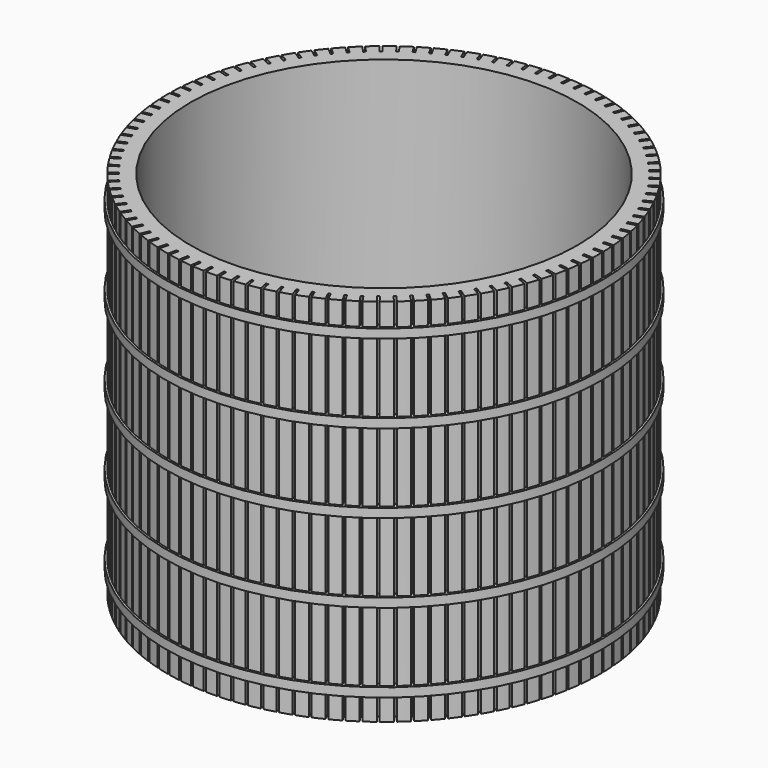
from build123d import *

# Parameters (mm, degrees)
F0_R      = 24.32304
F5_DEPTH  = 41.656
F6_T      = -2.54
F7_W      = 0.254
F7_H      = 1.307197
F8_DEPTH  = 41.657
F10_R     = 24.57704
F10_R_2   = 23.81504
F11_DEPTH = 1.016
F12_R     = 24.57704
F12_R_2   = 23.81504
F13_DEPTH = 1.016
F14_R     = 24.57704
F14_R_2   = 23.81504
F15_DEPTH = 1.016
F16_R     = 24.57704
F16_R_2   = 23.81504
F17_DEPTH = 1.016
F18_R     = 24.57704
F18_R_2   = 23.81504
F19_DEPTH = 1.016


with BuildPart() as f5:
    # F0 (on Top) → F5 (new body)
    with BuildSketch(Plane.XY):
        Circle(F0_R)
    extrude(amount=F5_DEPTH)

    # F6
    f6_openings = [f5.faces().sort_by_distance(p)[0] for p in [
        (0, 0, 41.656),
    ]]
    offset(amount=F6_T, openings=f6_openings)

    # F7 (on face) → F8 (cut, through all)
    with BuildSketch(Plane.XY.offset(41.656)):
        with Locations((0, 23.960639)):
            Rectangle(F7_W, F7_H)
        Polygon((1.656588, 24.558756), (1.403079, 24.574543), (1.321834, 23.269873), (1.575343, 23.254086), align=None)
        Polygon((3.179771, 24.408315), (2.927733, 24.439828), (2.765556, 23.14273), (3.017594, 23.111217), align=None)
        Polygon((4.690658, 24.163496), (4.441067, 24.210612), (4.198586, 22.926101), (4.448178, 22.878985), align=None)
        Polygon((6.183409, 23.825244), (5.937228, 23.887782), (5.61538, 22.620825), (5.861561, 22.558288), align=None)
        Polygon((7.65225, 23.394868), (7.410432, 23.472586), (7.010462, 22.228083), (7.252281, 22.150365), align=None)
        Polygon((9.091503, 22.874033), (8.854983, 22.96663), (8.378437, 21.749391), (8.614958, 21.656794), align=None)
        Polygon((10.495602, 22.264751), (10.265294, 22.371869), (9.714016, 21.186603), (9.944324, 21.079485), align=None)
        Polygon((11.859118, 21.569379), (11.635913, 21.690605), (11.012033, 20.541893), (11.235238, 20.420668), align=None)
        Polygon((13.176779, 20.790606), (12.96154, 20.92547), (12.267471, 19.817754), (12.48271, 19.682891), align=None)
        Polygon((14.44349, 19.931443), (14.237049, 20.079423), (13.475475, 19.016988), (13.681916, 18.869007), align=None)
        Polygon((15.654352, 18.995211), (15.457508, 19.155737), (14.631374, 18.142688), (14.828218, 17.982163), align=None)
        Polygon((16.804685, 17.985532), (16.618199, 18.157981), (15.730698, 17.198238), (15.917185, 17.025789), align=None)
        Polygon((17.89004, 16.906309), (17.714632, 17.090015), (16.769197, 16.187287), (16.944605, 16.003581), align=None)
        Polygon((18.90622, 15.761714), (18.742569, 15.955968), (17.742855, 15.113746), (17.906506, 14.919493), align=None)
        Polygon((19.849296, 14.556175), (19.698035, 14.760224), (18.647908, 13.981766), (18.799169, 13.777717), align=None)
        Polygon((20.715622, 13.294352), (20.577336, 13.507408), (19.480856, 12.795722), (19.619142, 12.582667), align=None)
        Polygon((21.501848, 11.981124), (21.377071, 12.202363), (20.238477, 11.560202), (20.363255, 11.338964), align=None)
        Polygon((22.204933, 10.621569), (22.094148, 10.850136), (20.917844, 10.279983), (21.02863, 10.051417), align=None)
        Polygon((22.82216, 9.220945), (22.725794, 9.455955), (21.516328, 8.960014), (21.612694, 8.725004), align=None)
        Polygon((23.351141, 7.784666), (23.269568, 8.025211), (22.031617, 7.6054), (22.113189, 7.364855), align=None)
        Polygon((23.789831, 6.318286), (23.723366, 6.563436), (22.461716, 6.221379), (22.528181, 5.976229), align=None)
        Polygon((24.136534, 4.827476), (24.085435, 5.076283), (22.804964, 4.813302), (22.856063, 4.564495), align=None)
        Polygon((24.389909, 3.318), (24.354373, 3.569502), (23.060032, 3.386613), (23.095569, 3.135111), align=None)
        Polygon((24.548977, 1.795694), (24.529141, 2.048918), (23.225936, 1.946829), (23.245773, 1.693605), align=None)
        Polygon((24.613123, 0.266445), (24.609063, 0.520412), (23.302033, 0.499518), (23.306092, 0.245551), align=None)
        Polygon((24.582098, -1.263835), (24.59383, -1.010106), (23.288028, -0.949725), (23.276296, -1.203453), align=None)
        Polygon((24.456022, -2.789228), (24.483502, -2.536719), (23.183977, -2.395295), (23.156497, -2.647804), align=None)
        Polygon((24.235383, -4.303835), (24.278504, -4.053522), (22.990282, -3.831604), (22.947161, -4.081917), align=None)
        Polygon((23.921035, -5.801802), (23.97963, -5.554653), (22.707691, -5.253097), (22.649096, -5.500246), align=None)
        Polygon((23.514192, -7.277334), (23.588034, -7.034305), (22.337297, -6.654278), (22.263454, -6.897308), align=None)
        Polygon((23.016427, -8.724728), (23.105232, -8.486758), (21.880532, -8.02973), (21.791727, -8.2677), align=None)
        Polygon((22.429666, -10.138386), (22.53309, -9.906396), (21.339163, -9.374133), (21.235739, -9.606124), align=None)
        Polygon((21.756177, -11.512843), (21.87382, -11.287729), (20.715282, -10.68229), (20.59764, -10.907404), align=None)
        Polygon((20.998565, -12.842783), (21.129971, -12.625416), (20.011303, -11.949142), (19.879897, -12.166509), align=None)
        Polygon((20.159758, -14.123065), (20.30442, -13.914285), (19.229947, -13.16979), (19.085285, -13.37857), align=None)
        Polygon((19.243, -15.348738), (19.400359, -15.149353), (18.374235, -14.339516), (18.216877, -14.538901), align=None)
        Polygon((18.251837, -16.515062), (18.421283, -16.325843), (17.447477, -15.453796), (17.27803, -15.643015), align=None)
        Polygon((17.190099, -17.617528), (17.370978, -17.439206), (16.453255, -16.508321), (16.272375, -16.686643), align=None)
        Polygon((16.061894, -18.651873), (16.253506, -18.485138), (15.395413, -17.499014), (15.203801, -17.665749), align=None)
        Polygon((14.871582, -19.614098), (15.073187, -19.459595), (14.278043, -18.422044), (14.076438, -18.576548), align=None)
        Polygon((13.623767, -20.500482), (13.834586, -20.358808), (13.105465, -19.273843), (12.894647, -19.415518), align=None)
        Polygon((12.323274, -21.307598), (12.54249, -21.1793), (11.882213, -20.051116), (11.662997, -20.179414), align=None)
        Polygon((10.975131, -22.032324), (11.201897, -21.917899), (10.613016, -20.750859), (10.386249, -20.865284), align=None)
        Polygon((9.584551, -22.671859), (9.817991, -22.571749), (9.302782, -21.370365), (9.069342, -21.470475), align=None)
        Polygon((8.156911, -23.22373), (8.396121, -23.138322), (7.956577, -21.907239), (7.717367, -21.992646), align=None)
        Polygon((6.69773, -23.685802), (6.941787, -23.615427), (6.579607, -22.359405), (6.335551, -22.42978), align=None)
        Polygon((5.212652, -24.056289), (5.460611, -24.001219), (5.177196, -22.725116), (4.929238, -22.780186), align=None)
        Polygon((3.707419, -24.33376), (3.95832, -24.294207), (3.754767, -23.002956), (3.503865, -23.042508), align=None)
        Polygon((2.18785, -24.517139), (2.440724, -24.493258), (2.317819, -23.191851), (2.064944, -23.215733), align=None)
        Polygon((0.659821, -24.60572), (0.913691, -24.597601), (0.871909, -23.291072), (0.618038, -23.29919), align=None)
        Polygon((-0.870759, -24.599158), (-0.616875, -24.606834), (-0.577373, -23.300234), (-0.831257, -23.292558), align=None)
        Polygon((-2.397972, -24.49748), (-2.145056, -24.52092), (-2.024422, -23.219301), (-2.277338, -23.195861), align=None)
        Polygon((-3.915913, -24.301079), (-3.664943, -24.340193), (-3.463643, -23.048588), (-3.714613, -23.009474), align=None)
        Polygon((-5.418712, -24.010713), (-5.170658, -24.065351), (-4.889471, -22.788754), (-5.137525, -22.734117), align=None)
        Polygon((-6.900559, -23.627507), (-6.656381, -23.697456), (-6.296394, -22.440804), (-6.540573, -22.370855), align=None)
        Polygon((-8.355724, -23.152941), (-8.116365, -23.237931), (-7.678971, -22.006082), (-7.91833, -21.921093), align=None)
        Polygon((-9.778581, -22.58885), (-9.544967, -22.688553), (-9.031855, -21.486271), (-9.265469, -21.386569), align=None)
        Polygon((-11.163626, -21.937417), (-10.936661, -22.051446), (-10.349817, -20.883379), (-10.576782, -20.76935), align=None)
        Polygon((-12.505506, -21.201158), (-12.286067, -21.329073), (-11.627759, -20.199739), (-11.847199, -20.071824), align=None)
        Polygon((-13.799032, -20.382922), (-13.587967, -20.524229), (-12.860741, -19.437993), (-13.071806, -19.296687), align=None)
        Polygon((-15.039201, -19.485873), (-14.837326, -19.640024), (-14.043995, -18.601088), (-14.245869, -18.446936), align=None)
        Polygon((-16.221219, -18.513478), (-16.029315, -18.679878), (-15.172945, -17.692258), (-15.364848, -17.525857), align=None)
        Polygon((-17.340515, -17.469498), (-17.159325, -17.647504), (-16.243227, -16.715018), (-16.424417, -16.537012), align=None)
        Polygon((-18.392761, -16.357969), (-18.222985, -16.546892), (-17.250702, -15.673147), (-17.420478, -15.484224), align=None)
        Polygon((-19.373889, -15.18319), (-19.216182, -15.382299), (-18.191474, -14.570673), (-18.34918, -14.371563), align=None)
        Polygon((-20.280104, -13.949702), (-20.135078, -14.158229), (-19.061906, -13.41186), (-19.206932, -13.203333), align=None)
        Polygon((-21.107903, -12.662276), (-20.976118, -12.879413), (-19.858632, -12.201187), (-19.990418, -11.98405), align=None)
        Polygon((-21.854085, -11.325889), (-21.736051, -11.550797), (-20.578572, -10.943337), (-20.696607, -10.718428), align=None)
        Polygon((-22.515765, -9.945708), (-22.411937, -10.177518), (-21.218941, -9.643172), (-21.322769, -9.411363), align=None)
        Polygon((-23.090385, -8.527071), (-23.001165, -8.764886), (-21.777264, -8.305721), (-21.866484, -8.067906), align=None)
        Polygon((-23.575721, -7.075463), (-23.501454, -7.318363), (-22.251382, -6.936154), (-22.325649, -6.693254), align=None)
        Polygon((-23.969898, -5.596497), (-23.910872, -5.843543), (-22.639461, -5.539768), (-22.698488, -5.292721), align=None)
        Polygon((-24.271392, -4.09589), (-24.227835, -4.346128), (-22.940002, -4.121961), (-22.983559, -3.871724), align=None)
        Polygon((-24.479037, -2.579446), (-24.451117, -2.831907), (-23.151841, -2.688216), (-23.179761, -2.435755), align=None)
        Polygon((-24.59203, -1.053029), (-24.579854, -1.306737), (-23.27416, -1.244076), (-23.286335, -0.990368), align=None)
        Polygon((-24.609934, 0.47746), (-24.61355, 0.223486), (-23.306486, 0.204873), (-23.302869, 0.458848), align=None)
        Polygon((-24.532679, 2.006104), (-24.552074, 1.752845), (-23.248693, 1.653031), (-23.229298, 1.90629), align=None)
        Polygon((-24.360565, 3.52699), (-24.395663, 3.275426), (-23.101006, 3.094797), (-23.065908, 3.346361), align=None)
        Polygon((-24.094258, 5.034238), (-24.144923, 4.785343), (-22.863995, 4.524597), (-22.81333, 4.773492), align=None)
        Polygon((-23.734786, 6.522021), (-23.800822, 6.276756), (-22.538577, 5.936901), (-22.47254, 6.182166), align=None)
        Polygon((-23.283539, 7.984586), (-23.364692, 7.743899), (-22.12601, 7.326249), (-22.044857, 7.566936), align=None)
        Polygon((-22.742263, 9.416276), (-22.838219, 9.181099), (-21.627889, 8.68727), (-21.531934, 8.922448), align=None)
        Polygon((-22.113051, 10.811558), (-22.223438, 10.582798), (-21.046141, 10.014699), (-20.935754, 10.243459), align=None)
        Polygon((-21.398335, 12.165034), (-21.522726, 11.943578), (-20.383014, 11.303406), (-20.258623, 11.524862), align=None)
        Polygon((-20.600879, 13.471473), (-20.738794, 13.258176), (-19.641073, 12.548406), (-19.503159, 12.761702), align=None)
        Polygon((-19.723767, 14.725822), (-19.874672, 14.521509), (-18.823187, 13.744885), (-18.672282, 13.949198), align=None)
        Polygon((-18.770389, 15.923231), (-18.933701, 15.728693), (-17.932518, 14.888218), (-17.769207, 15.082756), align=None)
        Polygon((-17.744433, 17.059071), (-17.91952, 16.875059), (-16.972511, 15.973983), (-16.797424, 16.157995), align=None)
        Polygon((-16.649865, 18.128949), (-16.83605, 17.956175), (-15.946876, 16.997982), (-15.760691, 17.170756), align=None)
        Polygon((-15.490918, 19.128729), (-15.687481, 18.96786), (-14.85958, 17.956256), (-14.663016, 18.117124), align=None)
        Polygon((-14.272072, 20.054544), (-14.478255, 19.906204), (-13.714828, 18.845099), (-13.508645, 18.993439), align=None)
        Polygon((-12.998042, 20.902816), (-13.213045, 20.767577), (-12.517044, 19.661074), (-12.302041, 19.796313), align=None)
        Polygon((-11.673753, 21.670263), (-11.896745, 21.548648), (-11.270862, 20.401027), (-11.047869, 20.522642), align=None)
        Polygon((-10.304325, 22.353919), (-10.534445, 22.246399), (-9.981099, 21.062096), (-9.750979, 21.169616), align=None)
        Polygon((-8.895054, 22.95114), (-9.131412, 22.85813), (-8.652743, 21.641726), (-8.416384, 21.734735), align=None)
        Polygon((-7.451388, 23.459617), (-7.69307, 23.381477), (-7.290929, 22.137674), (-7.049247, 22.215813), align=None)
        Polygon((-5.978911, 23.877383), (-6.224982, 23.814416), (-5.900924, 22.548023), (-5.654853, 22.61099), align=None)
        Polygon((-4.483315, 24.202824), (-4.732825, 24.155272), (-4.488102, 22.871187), (-4.238593, 22.918738), align=None)
        Polygon((-2.970384, 24.434681), (-3.222367, 24.402729), (-3.057926, 23.105915), (-2.805944, 23.137868), align=None)
        Polygon((-1.445968, 24.572057), (-1.699449, 24.555828), (-1.615926, 23.251302), (-1.362445, 23.267531), align=None)
    extrude(amount=-F8_DEPTH, mode=Mode.SUBTRACT)

    # F10 (on offset) → F11 (join)
    with BuildSketch(Plane.XY.offset(2.54)):
        Circle(F10_R)
        Circle(F10_R_2, mode=Mode.SUBTRACT)
    extrude(amount=F11_DEPTH)

    # F12 (on offset) → F13 (join)
    with BuildSketch(Plane.XY.offset(11.43)):
        Circle(F12_R)
        Circle(F12_R_2, mode=Mode.SUBTRACT)
    extrude(amount=F13_DEPTH)

    # F14 (on offset) → F15 (join)
    with BuildSketch(Plane.XY.offset(20.32)):
        Circle(F14_R)
        Circle(F14_R_2, mode=Mode.SUBTRACT)
    extrude(amount=F15_DEPTH)

    # F16 (on offset) → F17 (join)
    with BuildSketch(Plane.XY.offset(29.21)):
        Circle(F16_R)
        Circle(F16_R_2, mode=Mode.SUBTRACT)
    extrude(amount=F17_DEPTH)

    # F18 (on offset) → F19 (join)
    with BuildSketch(Plane.XY.offset(38.1)):
        Circle(F18_R)
        Circle(F18_R_2, mode=Mode.SUBTRACT)
    extrude(amount=F19_DEPTH)


solid = f5.part
